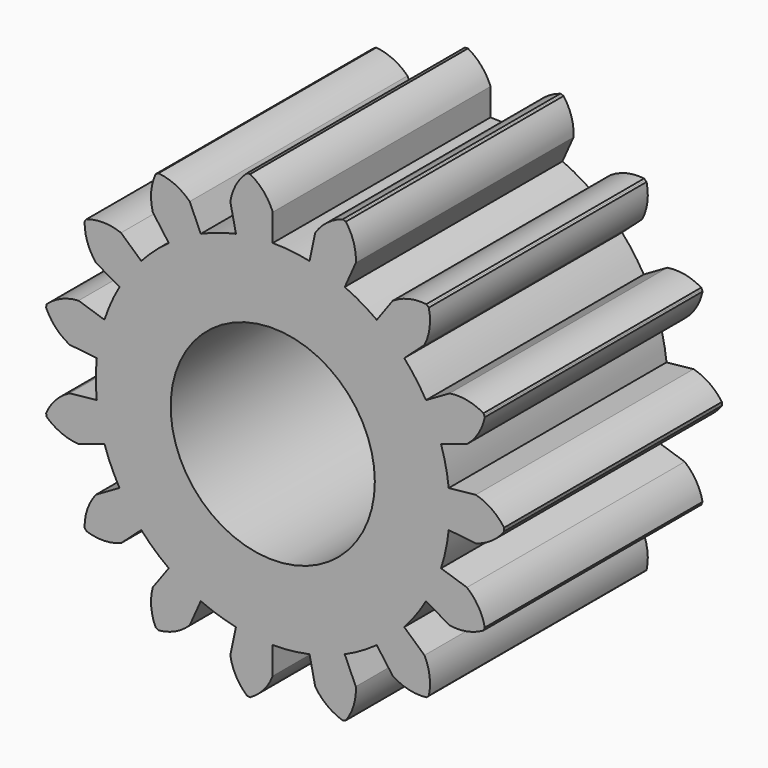
from build123d import *

# Parameters (mm, degrees)
F1_DEPTH = 25.4
F2_R     = 9.525
F3_DEPTH = 25.4


with BuildPart() as f1:
    # F0 (on Front) → F1 (new body)
    with BuildSketch(Plane.XZ):
        with BuildLine():
            Line((-3.960718, 18.633712), (-3.432622, 16.149217))
            ThreePointArc((-3.432622, 16.149217), (-5.101871, 15.701943), (-6.715222, 15.082636))
            Line((-6.715222, 15.082636), (-7.748333, 17.403041))
            ThreePointArc((-7.748333, 17.403041), (-9.085269, 18.342204), (-10.660947, 18.774246))
            Line((-10.660947, 18.774246), (-10.795276, 18.697967))
            Line((-10.795276, 18.697967), (-10.9285, 18.619774))
            ThreePointArc((-10.9285, 18.619774), (-11.34218, 17.039175), (-11.197309, 15.411774))
            Line((-11.197309, 15.411774), (-9.704335, 13.356871))
            ThreePointArc((-9.704335, 13.356871), (-11.047346, 12.269321), (-12.269321, 11.047346))
            Line((-12.269321, 11.047346), (-14.156909, 12.746938))
            ThreePointArc((-14.156909, 12.746938), (-15.760252, 13.061125), (-17.375434, 12.814929))
            Line((-17.375434, 12.814929), (-17.467124, 12.690608))
            Line((-17.467124, 12.690608), (-17.557026, 12.564989))
            ThreePointArc((-17.557026, 12.564989), (-17.292054, 10.952781), (-16.497784, 9.525))
            Line((-16.497784, 9.525), (-14.298079, 8.255))
            ThreePointArc((-14.298079, 8.255), (-15.082636, 6.715222), (-15.701943, 5.101871))
            Line((-15.701943, 5.101871), (-18.117627, 5.886774))
            ThreePointArc((-18.117627, 5.886774), (-19.710145, 5.52166), (-21.08555, 4.639795))
            Line((-21.08555, 4.639795), (-21.118747, 4.488928))
            Line((-21.118747, 4.488928), (-21.149783, 4.337602))
            ThreePointArc((-21.149783, 4.337602), (-20.251975, 2.972551), (-18.945642, 1.991267))
            Line((-18.945642, 1.991267), (-16.419556, 1.725765))
            ThreePointArc((-16.419556, 1.725765), (-16.51, 0), (-16.419556, -1.725765))
            Line((-16.419556, -1.725765), (-18.945642, -1.991267))
            ThreePointArc((-18.945642, -1.991267), (-20.251975, -2.972551), (-21.149783, -4.337602))
            Line((-21.149783, -4.337602), (-21.118747, -4.488928))
            Line((-21.118747, -4.488928), (-21.08555, -4.639795))
            ThreePointArc((-21.08555, -4.639795), (-19.710145, -5.52166), (-18.117627, -5.886774))
            Line((-18.117627, -5.886774), (-15.701943, -5.101871))
            ThreePointArc((-15.701943, -5.101871), (-15.082636, -6.715222), (-14.298079, -8.255))
            Line((-14.298079, -8.255), (-16.497784, -9.525))
            ThreePointArc((-16.497784, -9.525), (-17.292054, -10.952781), (-17.557026, -12.564989))
            Line((-17.557026, -12.564989), (-17.467124, -12.690608))
            Line((-17.467124, -12.690608), (-17.375434, -12.814929))
            ThreePointArc((-17.375434, -12.814929), (-15.760252, -13.061125), (-14.156909, -12.746938))
            Line((-14.156909, -12.746938), (-12.269321, -11.047346))
            ThreePointArc((-12.269321, -11.047346), (-11.047346, -12.269321), (-9.704335, -13.356871))
            Line((-9.704335, -13.356871), (-11.197309, -15.411774))
            ThreePointArc((-11.197309, -15.411774), (-11.34218, -17.039175), (-10.9285, -18.619774))
            Line((-10.9285, -18.619774), (-10.795276, -18.697967))
            Line((-10.795276, -18.697967), (-10.660947, -18.774246))
            ThreePointArc((-10.660947, -18.774246), (-9.085269, -18.342204), (-7.748333, -17.403041))
            Line((-7.748333, -17.403041), (-6.715222, -15.082636))
            ThreePointArc((-6.715222, -15.082636), (-5.101871, -15.701943), (-3.432622, -16.149217))
            Line((-3.432622, -16.149217), (-3.960718, -18.633712))
            ThreePointArc((-3.960718, -18.633712), (-3.43114, -20.179342), (-2.410337, -21.455031))
            Line((-2.410337, -21.455031), (-2.256827, -21.472277))
            Line((-2.256827, -21.472277), (-2.103086, -21.487325))
            ThreePointArc((-2.103086, -21.487325), (-0.839359, -20.451749), (0, -19.05))
            Line((0, -19.05), (0, -16.51))
            ThreePointArc((0, -16.51), (1.725765, -16.419556), (3.432622, -16.149217))
            Line((3.432622, -16.149217), (3.960718, -18.633712))
            ThreePointArc((3.960718, -18.633712), (5.073175, -19.830316), (6.524595, -20.580519))
            Line((6.524595, -20.580519), (6.671848, -20.533836))
            Line((6.671848, -20.533836), (6.818418, -20.48505))
            ThreePointArc((6.818418, -20.48505), (7.551683, -19.025), (7.748333, -17.403041))
            Line((7.748333, -17.403041), (6.715222, -15.082636))
            ThreePointArc((6.715222, -15.082636), (8.255, -14.298079), (9.704335, -13.356871))
            Line((9.704335, -13.356871), (11.197309, -15.411774))
            ThreePointArc((11.197309, -15.411774), (12.700292, -16.052449), (14.331365, -16.147448))
            Line((14.331365, -16.147448), (14.4469, -16.044907))
            Line((14.4469, -16.044907), (14.560955, -15.940724))
            ThreePointArc((14.560955, -15.940724), (14.63697, -14.308657), (14.156909, -12.746938))
            Line((14.156909, -12.746938), (12.269321, -11.047346))
            ThreePointArc((12.269321, -11.047346), (13.356871, -9.704335), (14.298079, -8.255))
            Line((14.298079, -8.255), (16.497784, -9.525))
            ThreePointArc((16.497784, -9.525), (18.131414, -9.498968), (19.660112, -8.922336))
            Line((19.660112, -8.922336), (19.723951, -8.781669))
            Line((19.723951, -8.781669), (19.785771, -8.640102))
            ThreePointArc((19.785771, -8.640102), (19.191393, -7.118216), (18.117627, -5.886774))
            Line((18.117627, -5.886774), (15.701943, -5.101871))
            ThreePointArc((15.701943, -5.101871), (16.149217, -3.432622), (16.419556, -1.725765))
            Line((16.419556, -1.725765), (18.945642, -1.991267))
            ThreePointArc((18.945642, -1.991267), (20.427449, -1.303029), (21.589447, -0.154472))
            Line((21.589447, -0.154472), (21.590553, 0))
            Line((21.590553, 0), (21.589447, 0.154472))
            ThreePointArc((21.589447, 0.154472), (20.427449, 1.303029), (18.945642, 1.991267))
            Line((18.945642, 1.991267), (16.419556, 1.725765))
            ThreePointArc((16.419556, 1.725765), (16.149217, 3.432622), (15.701943, 5.101871))
            Line((15.701943, 5.101871), (18.117627, 5.886774))
            ThreePointArc((18.117627, 5.886774), (19.191393, 7.118216), (19.785771, 8.640102))
            Line((19.785771, 8.640102), (19.723951, 8.781669))
            Line((19.723951, 8.781669), (19.660112, 8.922336))
            ThreePointArc((19.660112, 8.922336), (18.131414, 9.498968), (16.497784, 9.525))
            Line((16.497784, 9.525), (14.298079, 8.255))
            ThreePointArc((14.298079, 8.255), (13.356871, 9.704335), (12.269321, 11.047346))
            Line((12.269321, 11.047346), (14.156909, 12.746938))
            ThreePointArc((14.156909, 12.746938), (14.63697, 14.308657), (14.560955, 15.940724))
            Line((14.560955, 15.940724), (14.4469, 16.044907))
            Line((14.4469, 16.044907), (14.331365, 16.147448))
            ThreePointArc((14.331365, 16.147448), (12.700292, 16.052449), (11.197309, 15.411774))
            Line((11.197309, 15.411774), (9.704335, 13.356871))
            ThreePointArc((9.704335, 13.356871), (8.255, 14.298079), (6.715222, 15.082636))
            Line((6.715222, 15.082636), (7.748333, 17.403041))
            ThreePointArc((7.748333, 17.403041), (7.551683, 19.025), (6.818418, 20.48505))
            Line((6.818418, 20.48505), (6.671848, 20.533836))
            Line((6.671848, 20.533836), (6.524595, 20.580519))
            ThreePointArc((6.524595, 20.580519), (5.073175, 19.830316), (3.960718, 18.633712))
            Line((3.960718, 18.633712), (3.432622, 16.149217))
            ThreePointArc((3.432622, 16.149217), (1.725765, 16.419556), (0, 16.51))
            Line((0, 16.51), (0, 19.05))
            ThreePointArc((0, 19.05), (-0.839359, 20.451749), (-2.103086, 21.487325))
            Line((-2.103086, 21.487325), (-2.256827, 21.472277))
            Line((-2.256827, 21.472277), (-2.410337, 21.455031))
            ThreePointArc((-2.410337, 21.455031), (-3.43114, 20.179342), (-3.960718, 18.633712))
        make_face()
    extrude(amount=F1_DEPTH)

    # F2 (on face) → F3 (cut)
    with BuildSketch(Plane.XZ.offset(25.4)):
        Circle(F2_R)
    extrude(amount=-F3_DEPTH, mode=Mode.SUBTRACT)


solid = f1.part
